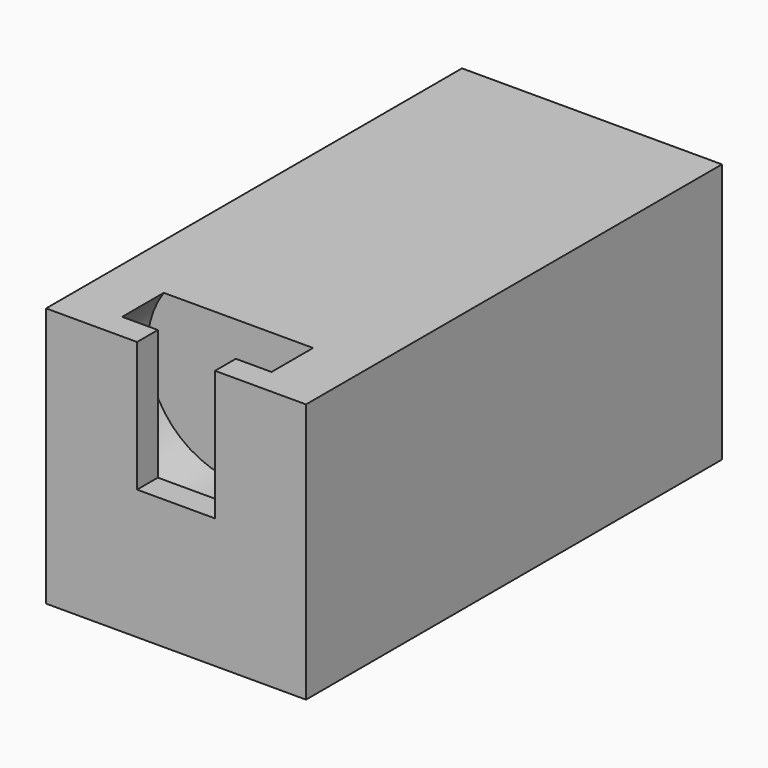
from build123d import *

# Parameters (mm, degrees)
BOX001_W            = 3
BOX001_H            = 1
BOX001_DEPTH        = 5
CYLINDER_R          = 3.5
CYLINDER_DEPTH      = 2
CYLINDER_ROLL_ANGLE = 90
BOX_W               = 10
BOX_H               = 20
BOX_DEPTH           = 10


with BuildPart() as cube:
    # Box001 → Box001 (new body)
    with BuildSketch(Plane(origin=(3.5, 0, 5), x_dir=(1, 0, 0), z_dir=(0, 0, 1))):
        with Locations((1.5, 0.5)):
            Rectangle(BOX001_W, BOX001_H)
    extrude(amount=BOX001_DEPTH)


with BuildPart() as solenoid_head_slot:
    # Cylinder → Cylinder (new body)
    with BuildSketch(Plane.XY):
        Circle(CYLINDER_R)
    extrude(amount=CYLINDER_DEPTH)


with BuildPart() as solenoid_head_slot_1:
    # Cylinder roll: moved
    add(solenoid_head_slot.part.rotate(Axis((0, 0, 0), (1, 0, 0)), CYLINDER_ROLL_ANGLE))


with BuildPart() as solenoid_head_slot_2:
    # Cylinder placement: moved
    add(solenoid_head_slot_1.part.moved(Location((5, 3, 8))))


with BuildPart() as cut001:
    # Box → Box (new body)
    with BuildSketch(Plane.XY):
        with Locations((5, 10)):
            Rectangle(BOX_W, BOX_H)
    extrude(amount=BOX_DEPTH)

    # Cut: cut solenoid_head_slot
    add(solenoid_head_slot_2.part, mode=Mode.SUBTRACT)

    # Cut001: cut Cube
    add(cube.part, mode=Mode.SUBTRACT)


solid = cut001.part
